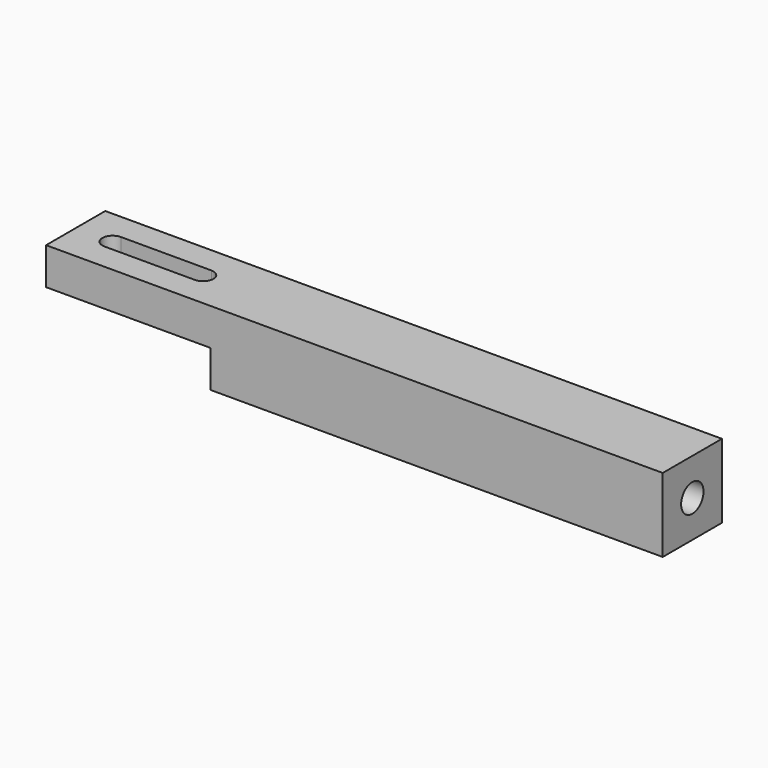
from build123d import *

# Parameters (mm, degrees)
F0_W     = 18
F0_H     = 18
F1_DEPTH = 150
F2_W     = 40
F2_H     = 18
F3_DEPTH = 9
F4_DEPTH = 25
F6_D     = 6.8
F6_DEPTH = 18.75
F6_TIP   = 2.0429261047


with BuildPart() as f1:
    # F0 (on Right) → F1 (new body)
    with BuildSketch(Plane.YZ):
        Rectangle(F0_W, F0_H)
    extrude(amount=F1_DEPTH)

    # F2 (on face) → F3 (cut)
    with BuildSketch(Plane(origin=(0, 0, -9), x_dir=(1, 0, 0), z_dir=(0, 0, -1))):
        with Locations((20, 0)):
            Rectangle(F2_W, F2_H)
        with BuildLine():
            ThreePointArc((9, -2.5), (6.5, 0), (9, 2.5))
            Line((9, 2.5), (31, 2.5))
            ThreePointArc((31, 2.5), (32.767766953, 1.767766953), (33.5, 0))
            ThreePointArc((33.5, 0), (32.767766953, -1.767766953), (31, -2.5))
            Line((31, -2.5), (9, -2.5))
        make_face(mode=Mode.SUBTRACT)
    extrude(amount=-F3_DEPTH, mode=Mode.SUBTRACT)

    # F4 (cut): a face of the model
    f4_faces = [f1.faces().sort_by_distance(p)[0] for p in [
        (20, 0, -9),
    ]]
    extrude(f4_faces, amount=-F4_DEPTH, mode=Mode.SUBTRACT)

    # F6
    with Locations(Plane.YZ.offset(150)):
        with Locations((0, 0)):
            Hole(F6_D / 2, depth=F6_DEPTH)
            with Locations((0, 0, -(F6_DEPTH + F6_TIP / 2))):  # 118° drill point
                Cone(0, F6_D / 2, F6_TIP, mode=Mode.SUBTRACT)


solid = f1.part
